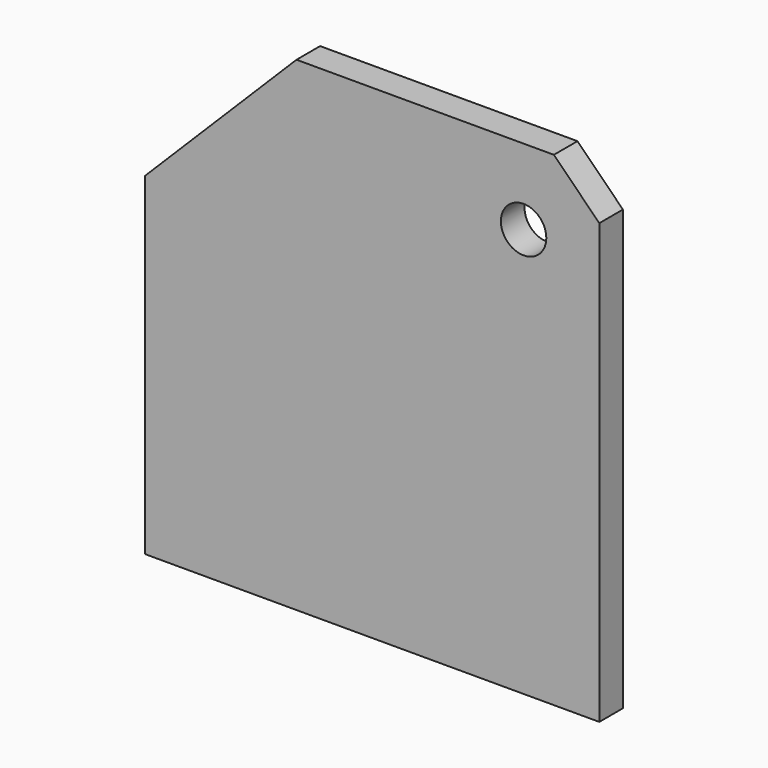
from build123d import *

# Parameters (mm, degrees)
CYLINDER001_R     = 1.5
CYLINDER001_DEPTH = 2
BOX_W             = 30
BOX_H             = 1.95
BOX_DEPTH         = 32
CHAMFER_SIZE      = 10
CHAMFER001_SIZE   = 3


with BuildPart() as cylinder001:
    # Cylinder001 → Cylinder001 (new body)
    with BuildSketch(Plane(origin=(10, 0, 5), x_dir=(1, 0, 0), z_dir=(0, 1, 0))):
        Circle(CYLINDER001_R)
    extrude(amount=CYLINDER001_DEPTH)


with BuildPart() as cut:
    # Box → Box (new body)
    with BuildSketch(Plane(origin=(-15, 0, -22), x_dir=(1, 0, 0), z_dir=(0, 0, 1))):
        with Locations((15, 0.975)):
            Rectangle(BOX_W, BOX_H)
    extrude(amount=BOX_DEPTH)

    # Chamfer
    chamfer_edges = [cut.edges().sort_by_distance(p)[0] for p in [
        (-15, 0.975, 10),
    ]]
    chamfer(chamfer_edges, length=CHAMFER_SIZE)

    # Chamfer001
    chamfer001_edges = [cut.edges().sort_by_distance(p)[0] for p in [
        (15, 0.975, 10),
    ]]
    chamfer(chamfer001_edges, length=CHAMFER001_SIZE)

    # Cut: cut Cylinder001
    add(cylinder001.part, mode=Mode.SUBTRACT)


solid = cut.part
